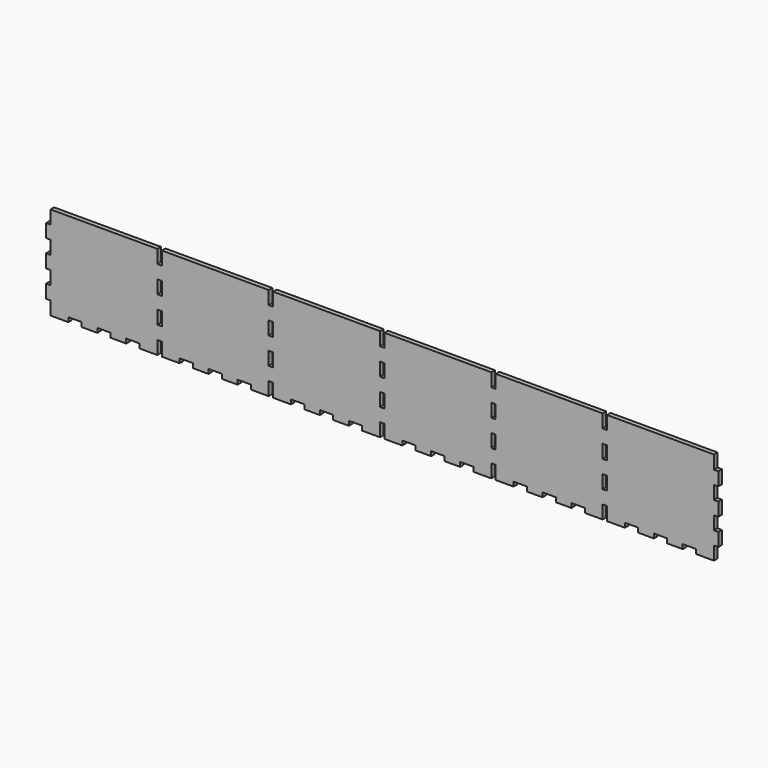
from build123d import *

# Parameters (mm, degrees)
F0_W     = 479.425
F0_H     = 66.675
F1_DEPTH = 3.175
F2_W     = 3.175
F2_H     = 9.525
F3_DEPTH = 3.176
F4_W     = 9.525
F4_H     = 3.175
F5_DEPTH = 3.176


with BuildPart() as f1:
    # F0 (on Front) → F1 (new body)
    with BuildSketch(Plane.XZ):
        Rectangle(F0_W, F0_H)
    extrude(amount=F1_DEPTH)

    # F2 (on face) → F3 (cut, through all)
    with BuildSketch(Plane.XZ.offset(3.175)):
        with Locations((-238.125, -28.575)):
            Rectangle(F2_W, F2_H)
        with Locations((-238.125, -9.525)):
            Rectangle(F2_W, F2_H)
        with Locations((-238.125, 9.525)):
            Rectangle(F2_W, F2_H)
        with Locations((-238.125, 28.575)):
            Rectangle(F2_W, F2_H)
        with Locations((-158.75, -28.575)):
            Rectangle(F2_W, F2_H)
        with Locations((-158.75, -9.525)):
            Rectangle(F2_W, F2_H)
        with Locations((-158.75, 9.525)):
            Rectangle(F2_W, F2_H)
        with Locations((-158.75, 28.575)):
            Rectangle(F2_W, F2_H)
        with Locations((-79.375, -28.575)):
            Rectangle(F2_W, F2_H)
        with Locations((-79.375, -9.525)):
            Rectangle(F2_W, F2_H)
        with Locations((-79.375, 9.525)):
            Rectangle(F2_W, F2_H)
        with Locations((-79.375, 28.575)):
            Rectangle(F2_W, F2_H)
        with Locations((0, -28.575)):
            Rectangle(F2_W, F2_H)
        with Locations((0, -9.525)):
            Rectangle(F2_W, F2_H)
        with Locations((0, 9.525)):
            Rectangle(F2_W, F2_H)
        with Locations((0, 28.575)):
            Rectangle(F2_W, F2_H)
        with Locations((79.375, -28.575)):
            Rectangle(F2_W, F2_H)
        with Locations((79.375, -9.525)):
            Rectangle(F2_W, F2_H)
        with Locations((79.375, 9.525)):
            Rectangle(F2_W, F2_H)
        with Locations((79.375, 28.575)):
            Rectangle(F2_W, F2_H)
        with Locations((158.75, -28.575)):
            Rectangle(F2_W, F2_H)
        with Locations((158.75, -9.525)):
            Rectangle(F2_W, F2_H)
        with Locations((158.75, 9.525)):
            Rectangle(F2_W, F2_H)
        with Locations((158.75, 28.575)):
            Rectangle(F2_W, F2_H)
        with Locations((238.125, -28.575)):
            Rectangle(F2_W, F2_H)
        with Locations((238.125, -9.525)):
            Rectangle(F2_W, F2_H)
        with Locations((238.125, 9.525)):
            Rectangle(F2_W, F2_H)
        with Locations((238.125, 28.575)):
            Rectangle(F2_W, F2_H)
    extrude(amount=-F3_DEPTH, mode=Mode.SUBTRACT)

    # F4 (on face) → F5 (cut, through all)
    with BuildSketch(Plane.XZ.offset(3.175)):
        with Locations((-219.075, -31.75)):
            Rectangle(F4_W, F4_H)
        with Locations((-198.4375, -31.75)):
            Rectangle(F4_W, F4_H)
        with Locations((-177.8, -31.75)):
            Rectangle(F4_W, F4_H)
        with Locations((-139.7, -31.75)):
            Rectangle(F4_W, F4_H)
        with Locations((-119.0625, -31.75)):
            Rectangle(F4_W, F4_H)
        with Locations((-98.425, -31.75)):
            Rectangle(F4_W, F4_H)
        with Locations((-60.325, -31.75)):
            Rectangle(F4_W, F4_H)
        with Locations((-39.6875, -31.75)):
            Rectangle(F4_W, F4_H)
        with Locations((-19.05, -31.75)):
            Rectangle(F4_W, F4_H)
        with Locations((19.05, -31.75)):
            Rectangle(F4_W, F4_H)
        with Locations((39.6875, -31.75)):
            Rectangle(F4_W, F4_H)
        with Locations((60.325, -31.75)):
            Rectangle(F4_W, F4_H)
        with Locations((98.425, -31.75)):
            Rectangle(F4_W, F4_H)
        with Locations((119.0625, -31.75)):
            Rectangle(F4_W, F4_H)
        with Locations((139.7, -31.75)):
            Rectangle(F4_W, F4_H)
        with Locations((177.8, -31.75)):
            Rectangle(F4_W, F4_H)
        with Locations((198.4375, -31.75)):
            Rectangle(F4_W, F4_H)
        with Locations((219.075, -31.75)):
            Rectangle(F4_W, F4_H)
    extrude(amount=-F5_DEPTH, mode=Mode.SUBTRACT)


solid = f1.part
